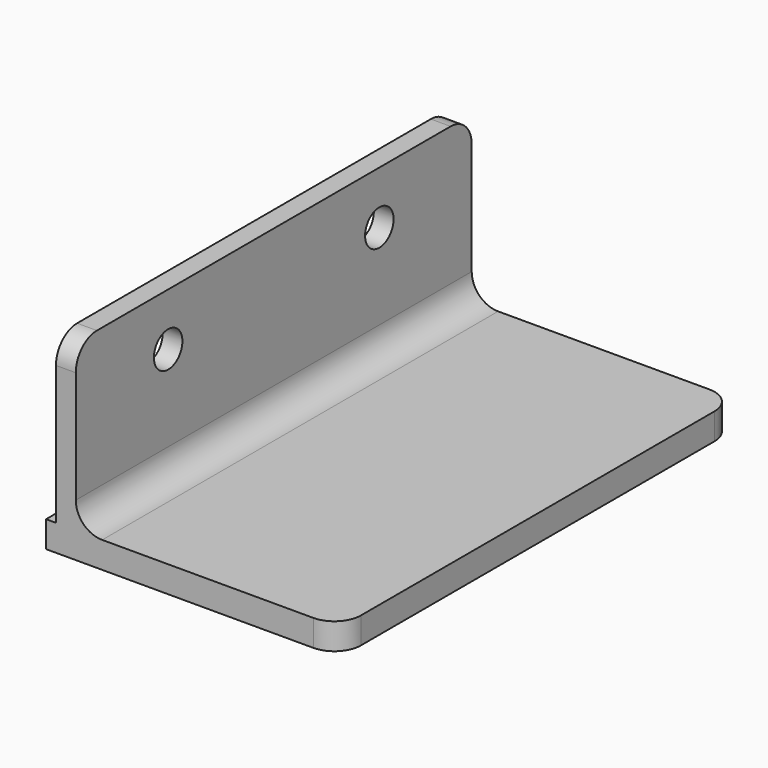
from build123d import *

# Parameters (mm, degrees)
F1_DEPTH = 75
F2_R     = 8
F3_R     = 5.4
F4_DEPTH = 25


with BuildPart() as f1:
    # F0 (on Front) → F1 (new body, symmetric)
    with BuildSketch(Plane.XZ):
        Polygon((0, 0), (-3, 0), (-3, -8), (86, -8), (86, 0), (6, 0), (6, 50), (0, 50), align=None)
    extrude(amount=F1_DEPTH, both=True)

    # F2
    f2_edges = [f1.edges().sort_by_distance(p)[0] for p in [
        (86, 75, -4),
        (86, -75, -4),
        (3, 75, 50),
        (3, -75, 50),
        (6, 0, 0),
    ]]
    fillet(f2_edges, radius=F2_R)

    # F3 (on Right) → F4 (cut)
    with BuildSketch(Plane.YZ):
        with Locations((-40, 34)):
            Circle(F3_R)
        with BuildLine():
            ThreePointArc((45.4, 34), (40, 39.4), (34.6, 34))
            ThreePointArc((34.6, 34), (40, 28.6), (45.4, 34))
        make_face()
    extrude(amount=F4_DEPTH, mode=Mode.SUBTRACT)


solid = f1.part
